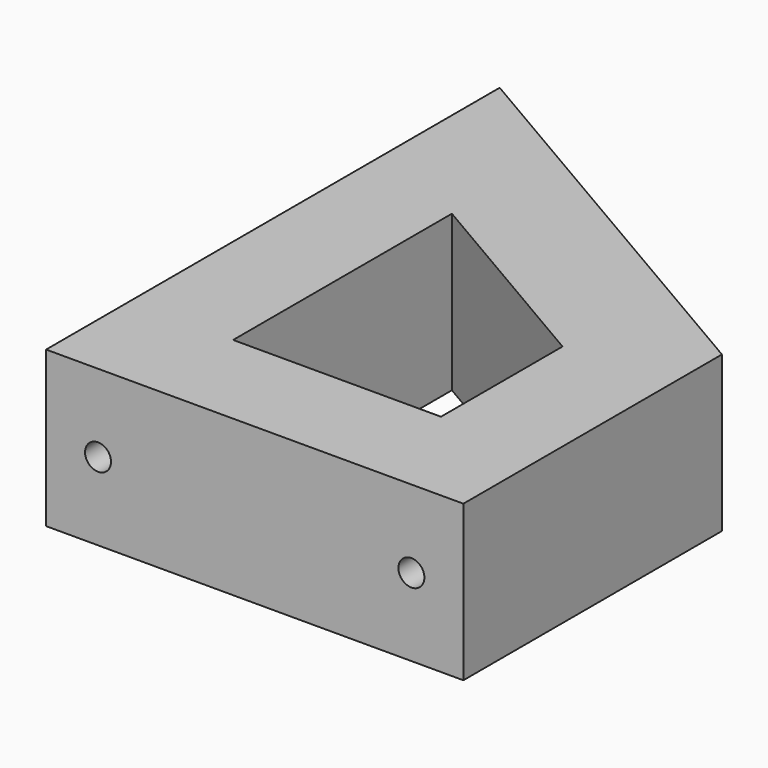
from build123d import *

# Parameters (mm, degrees)
F1_DEPTH = 19
F2_R     = 1.0795
F3_DEPTH = 19.05
F5_D     = 3.175
F5_DEPTH = 16.51
F5_TIP   = 0.9538662327


with BuildPart() as f1:
    # F0 (on Top) → F1 (new body)
    with BuildSketch(Plane.XY):
        Polygon((0, 69.3), (0, 0), (51, 0), (51, 39.5), align=None)
        Polygon((38.1, 12.7), (12.7, 12.7), (12.7, 46.1200160448), (38.1, 31.2784474173), align=None, mode=Mode.SUBTRACT)
    extrude(amount=F1_DEPTH)

    # F2 (on face) → F3 (join)
    with BuildSketch(Plane.XZ):
        with Locations((6.35, 9.5)):
            Circle(F2_R)
        with Locations((44.65, 9.5)):
            Circle(F2_R)
    extrude(amount=-F3_DEPTH)

    # F5
    with Locations(Plane.XZ):
        with Locations((6.35, 9.5), (44.65, 9.5)):
            Hole(F5_D / 2, depth=F5_DEPTH)
            with Locations((0, 0, -(F5_DEPTH + F5_TIP / 2))):  # 118° drill point
                Cone(0, F5_D / 2, F5_TIP, mode=Mode.SUBTRACT)


solid = f1.part
